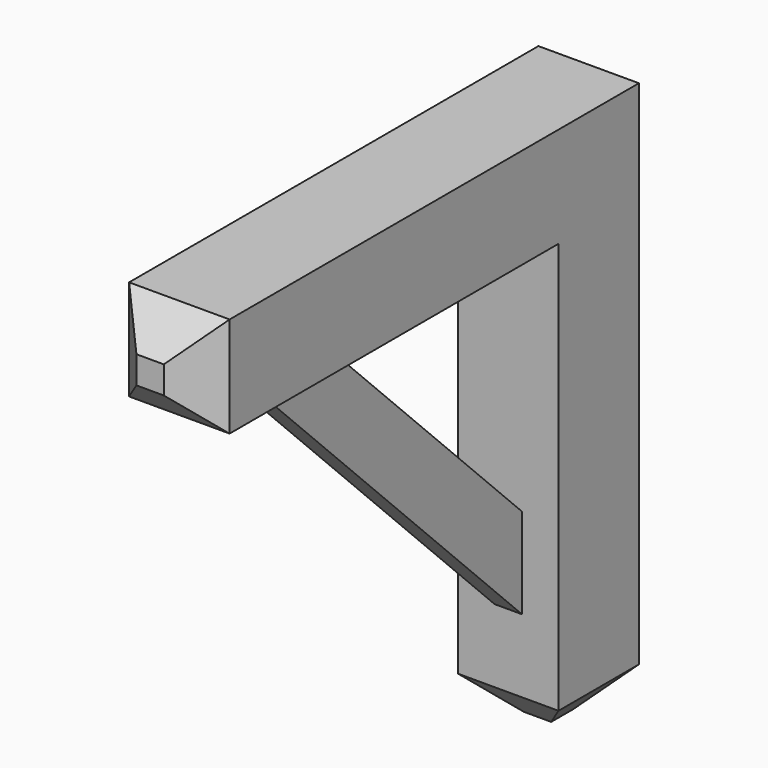
from build123d import *

# Parameters (mm, degrees)
F1_DEPTH = 69.85
F2_SIZE2 = 50.8
F2_SIZE  = 50.8
F4_DEPTH = 19.05
F5_SCALE = 0.0114810563


with BuildPart() as f1:
    # F0 (on Right) → F1 (new body, symmetric)
    with BuildSketch(Plane.YZ):
        Polygon((0, 0), (-762, 0), (-762, -139.7), (-139.7, -139.7), (-139.7, -762), (0, -762), align=None)
    extrude(amount=F1_DEPTH, both=True)

    # F2
    f2_edges = [f1.edges().sort_by_distance(p)[0] for p in [
        (0, -762, -139.7),
        (69.85, -69.85, -762),
        (0, -139.7, -762),
        (-69.85, -69.85, -762),
        (0, 0, -762),
        (-69.85, -762, -69.85),
        (0, -762, 0),
        (69.85, -762, -69.85),
    ]]
    chamfer(f2_edges, length=F2_SIZE, length2=F2_SIZE2)

    # F3 (on Right) → F4 (join, symmetric)
    with BuildSketch(Plane.YZ):
        Polygon((-483.876414305, -139.7), (-609.6, -139.7), (-139.7, -609.6), (-139.7, -483.876414305), align=None)
    extrude(amount=F4_DEPTH, both=True)


with BuildPart() as f1_1:
    # F5: moved
    add(f1.part.scale(F5_SCALE))


solid = f1_1.part
